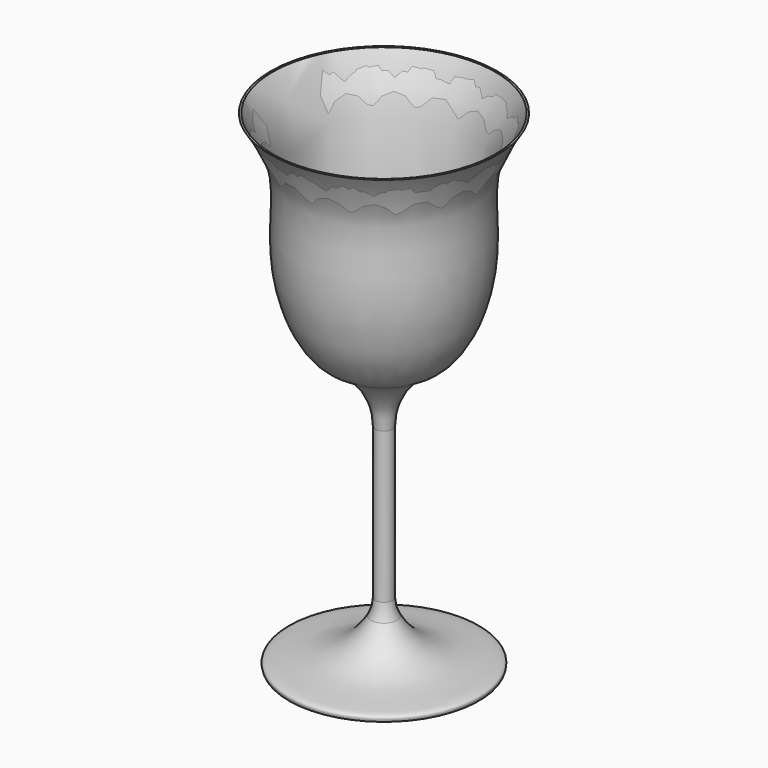
from build123d import *

# Parameters (mm, degrees)
F2_R = 9.8258305857
F3_R = 5.08
F4_T = -0.254


with BuildPart() as f1:
    # F0 (on Front) → F1 (revolve)
    with BuildSketch(Plane.XZ):
        with BuildLine():
            add(Edge.make_bspline(
                [(-14.8907499388, 0), (-14.9824655801, 0.2646292558), (-15.2581809528, 1.0637797158), (-10.8565528964, 1.1952626181), (-7.2057781792, 1.9711748377), (-3.26317076, 4.1348369635), (-1.3600237435, 8.224776946)],
                knots=[0, 0, 0, 0, 0.1079076195, 0.3579874544, 0.6147734511, 1, 1, 1, 1], degree=3))
            Line((-14.8907499388, 0), (0, 0))
            Line((0, 0), (0, 76.0094970465))
            Line((0, 76.0094970465), (-17.7657045424, 76.2717798352))
            add(Edge.make_bspline(
                [(-1.3600237435, 40.7561585307), (-3.8946765272, 40.9552195648), (-9.7357691512, 41.460499045), (-15.1808226443, 55.6093988921), (-12.7262369479, 68.4600123108), (-16.2014499455, 73.8455150221), (-17.7657045424, 76.2717798352)],
                knots=[0, 0, 0, 0, 0.2098854981, 0.4945129336, 0.7729367621, 1, 1, 1, 1], degree=3))
            Line((-1.3600237435, 40.7561585307), (-1.3600237435, 8.224776946))
        make_face()
    revolve(axis=Axis((0, 0, 38.0047485232), (0, 0, -1)))

    # F2
    f2_edges = [f1.edges().sort_by_distance(p)[0] for p in [
        (1.360024, 0, 40.756159),
    ]]
    fillet(f2_edges, radius=F2_R)

    # F3
    f3_edges = [f1.edges().sort_by_distance(p)[0] for p in [
        (1.360024, 0, 8.224777),
    ]]
    fillet(f3_edges, radius=F3_R)

    # F4
    f4_openings = [f1.faces().sort_by_distance(p)[0] for p in [
        (8.882852, 0, 76.140638),
    ]]
    offset(amount=F4_T, openings=f4_openings, kind=Kind.INTERSECTION)


solid = f1.part
